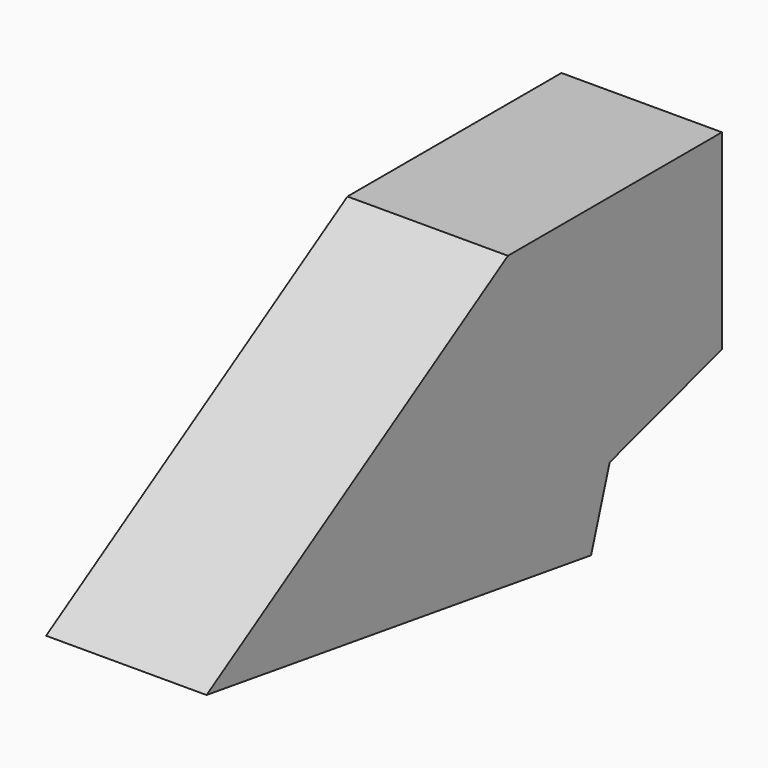
from build123d import *

# Parameters (mm, degrees)
F1_DEPTH = 19.05
F2_DEPTH = 19.05


with BuildPart() as f1:
    # F0 (on Right) → F1 (new body, symmetric)
    with BuildSketch(Plane.YZ):
        Polygon((36.1771242563, 87.0177971406), (-53.2543286681, 31.5674617887), (60.8580209397, 14.3890699157), (66.3859245414, 31.5674617887), (99.6771242563, 41.6512117924), (99.6771242563, 87.0177971406), align=None)
    extrude(amount=F1_DEPTH, both=True)

    # F0 (on Right) → F2 (join, symmetric)
    with BuildSketch(Plane.YZ):
        Polygon((36.1771242563, 87.0177971406), (-53.2543286681, 31.5674617887), (60.8580209397, 14.3890699157), (66.3859245414, 31.5674617887), (99.6771242563, 41.6512117924), (99.6771242563, 87.0177971406), align=None)
    extrude(amount=F2_DEPTH, both=True)


solid = f1.part
